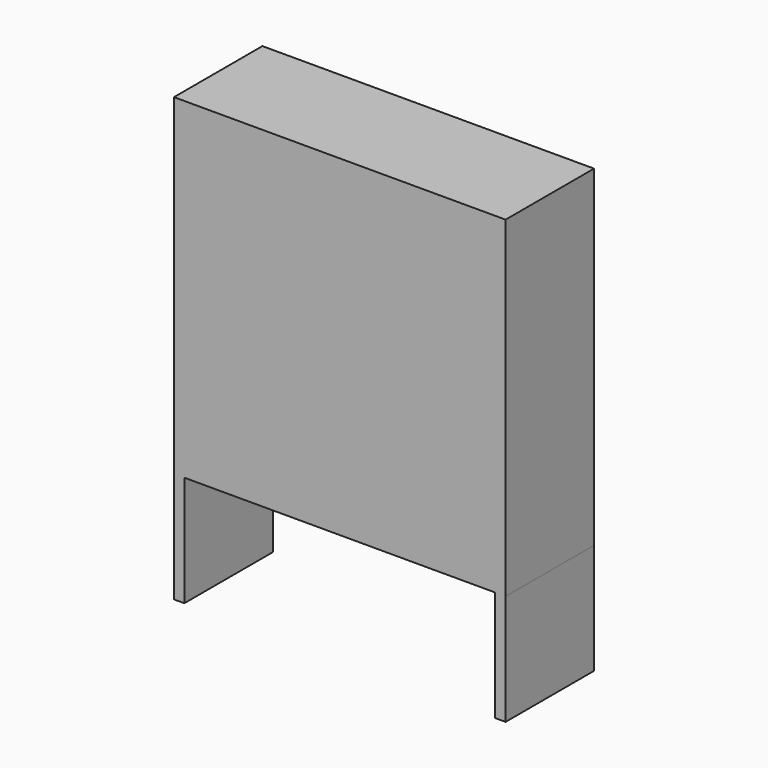
from build123d import *

# Parameters (mm, degrees)
F0_W     = 152.4
F0_H     = 152.4
F1_DEPTH = 25.4
F2_T     = -6.35
F3_W     = 4.766873
F3_H     = 50.8
F4_DEPTH = 50.8


with BuildPart() as f1:
    # F0 (on Front) → F1 (new body, symmetric)
    with BuildSketch(Plane.XZ):
        Rectangle(F0_W, F0_H)
    extrude(amount=F1_DEPTH, both=True)

    # F2
    f2_openings = [f1.faces().sort_by_distance(p)[0] for p in [
        (0, 25.4, 0),
    ]]
    offset(amount=F2_T, openings=f2_openings)

    # F3 (on face) → F4 (join)
    with BuildSketch(Plane(origin=(0, 0, -76.2), x_dir=(1, 0, 0), z_dir=(0, 0, -1))):
        with Locations((-73.816564, 0)):
            Rectangle(F3_W, F3_H)
        with Locations((73.816564, 0)):
            Rectangle(F3_W, F3_H)
    extrude(amount=F4_DEPTH)


solid = f1.part
